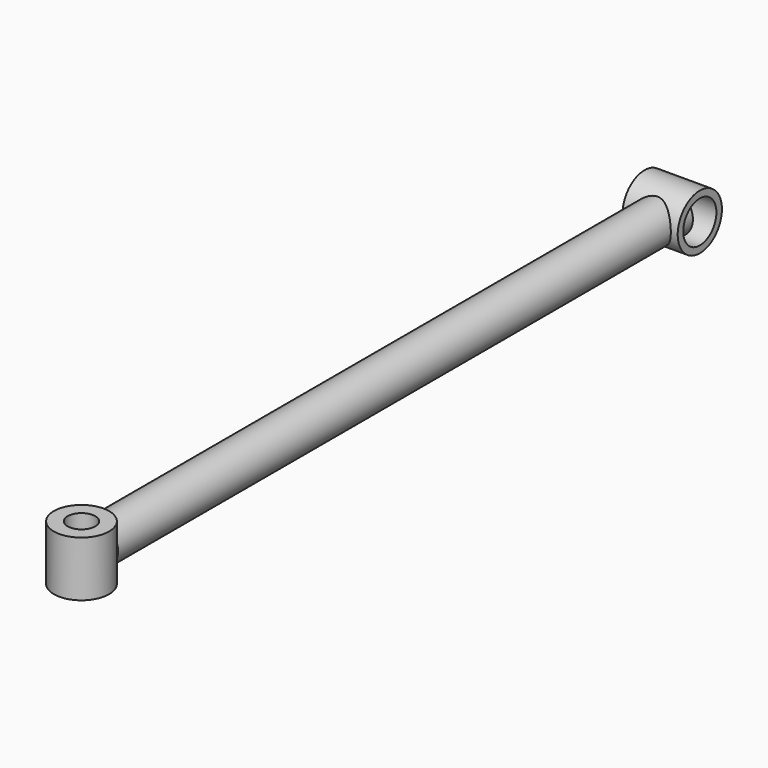
from build123d import *

# Parameters (mm, degrees)
F1_R     = 12.7
F1_R_2   = 9.525
F2_DEPTH = 12.7
F0_R     = 9.525
F3_DEPTH = 330.2
F4_R     = 12.7
F4_R_2   = 6.35
F5_DEPTH = 12.7


with BuildPart() as f2:
    # F1 (on Right) → F2 (new body, symmetric)
    with BuildSketch(Plane.YZ):
        Circle(F1_R)
        Circle(F1_R_2, mode=Mode.SUBTRACT)
    extrude(amount=F2_DEPTH, both=True)

    # F0 (on Front) → F3 (join)
    with BuildSketch(Plane.XZ):
        Circle(F0_R)
    extrude(amount=F3_DEPTH)

    # F4 (on Top) → F5 (join, symmetric)
    with BuildSketch(Plane.XY):
        with Locations((0, -339.321733)):
            Circle(F4_R)
        with Locations((0, -339.321733)):
            Circle(F4_R_2, mode=Mode.SUBTRACT)
    extrude(amount=F5_DEPTH, both=True)


solid = f2.part
